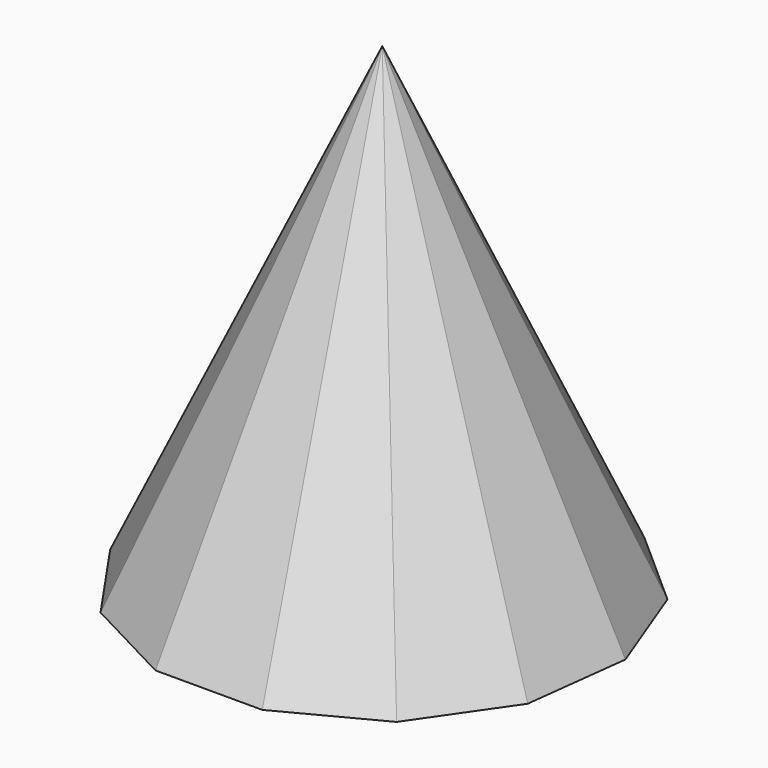
from build123d import *


with BuildPart() as f3:
    # F0 (on Top) → F3 section 0
    with BuildSketch(Plane.XY, mode=Mode.PRIVATE) as f3_s0:
        Polygon((21.664861, 41.278944), (0, 46.618853), (-21.664861, 41.278944), (-38.366564, 26.482527), (-46.278949, 5.619282), (-43.589385, -16.531273), (-30.914018, -34.894712), (-11.156622, -45.264194), (11.156622, -45.264194), (30.914018, -34.894712), (43.589385, -16.531273), (46.278949, 5.619282), (38.366564, 26.482527), align=None)
    loft([f3_s0.sketch, Vertex(0, 0, 100)])


solid = f3.part
